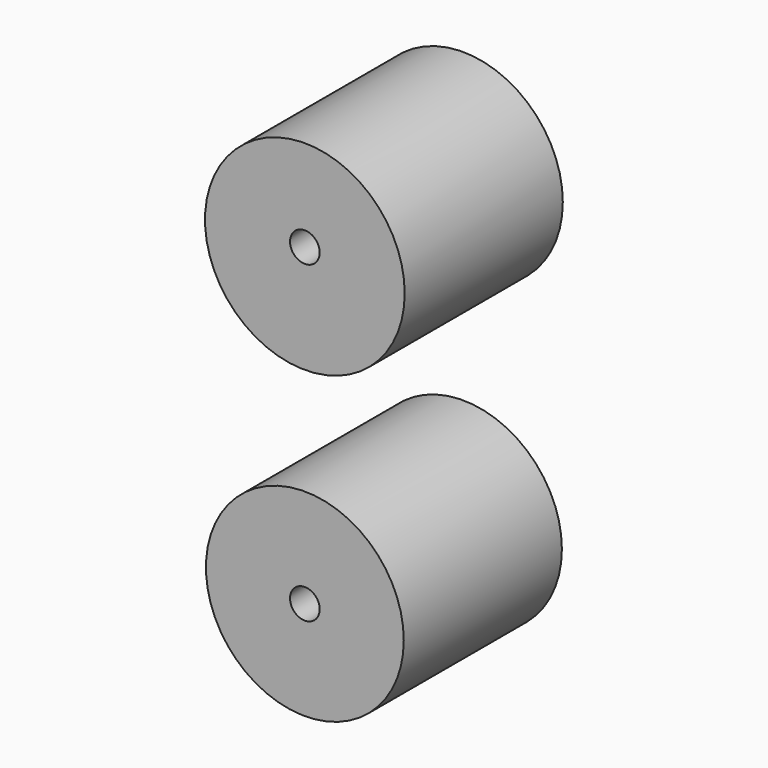
from build123d import *

# Parameters (mm, degrees)
F0_R     = 25.6656549917
F1_DEPTH = 50.8
F0_R_2   = 25.4262657658
F3_D     = 7.62
F5_D     = 7.62


with BuildPart() as f1:
    # F0 (on Front) → F1 (new body)
    with BuildSketch(Plane.XZ):
        with Locations((0, 47.4435910583)):
            Circle(F0_R)
    extrude(amount=F1_DEPTH)

    # F3 (through all)
    with Locations(Plane(origin=(0, 0, 0), x_dir=(1, 0, 0), z_dir=(0, 1, 0))):
        with Locations((0, -49.5742894709)):
            Hole(F3_D / 2)


with BuildPart() as f1b:
    # F0 (on Front) → F1, piece 2 (new body)
    with BuildSketch(Plane.XZ):
        with Locations((0, -31.1413835734)):
            Circle(F0_R_2)
    extrude(amount=F1_DEPTH)

    # F5 (through all)
    with Locations(Plane.XZ.offset(50.8)):
        with Locations((0, -31.1413835734)):
            Hole(F5_D / 2)


solid = Compound([f1.part, f1b.part])
